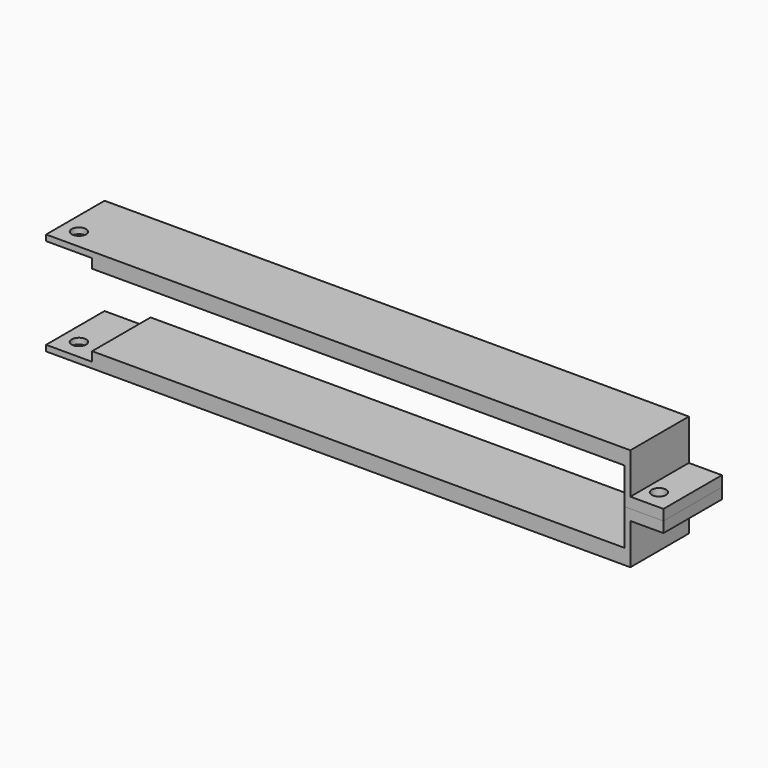
from build123d import *

# Parameters (mm, degrees)
F1_DEPTH      = 3.7
F1_DEPTH_BACK = 10
F4_D          = 2.7


with BuildPart() as f1:
    # F0 (on Front) → F1 (new body, two sides)
    with BuildSketch(Plane.XZ) as f1_sk:
        Polygon((47.719514, 9.65), (-61.780486, 9.65), (-61.780486, 8.55), (-53.156097, 8.55), (-53.156097, 6.8), (46.619514, 6.8), (46.619514, 0), (53.919514, 0), (53.919514, 2), (47.719514, 2), align=None)
    extrude(amount=F1_DEPTH)
    extrude(f1_sk.sketch, amount=-F1_DEPTH_BACK)

    # F4 (through all)
    with Locations(Plane.XY.offset(2)):
        with Locations((50.119514, 0), (-58.580486, 0)):
            Hole(F4_D / 2)


with BuildPart() as f5_1:
    # F5: instance of F1
    add(f1.part.mirror(Plane.XY))


solid = Compound([f1.part, f5_1.part])
